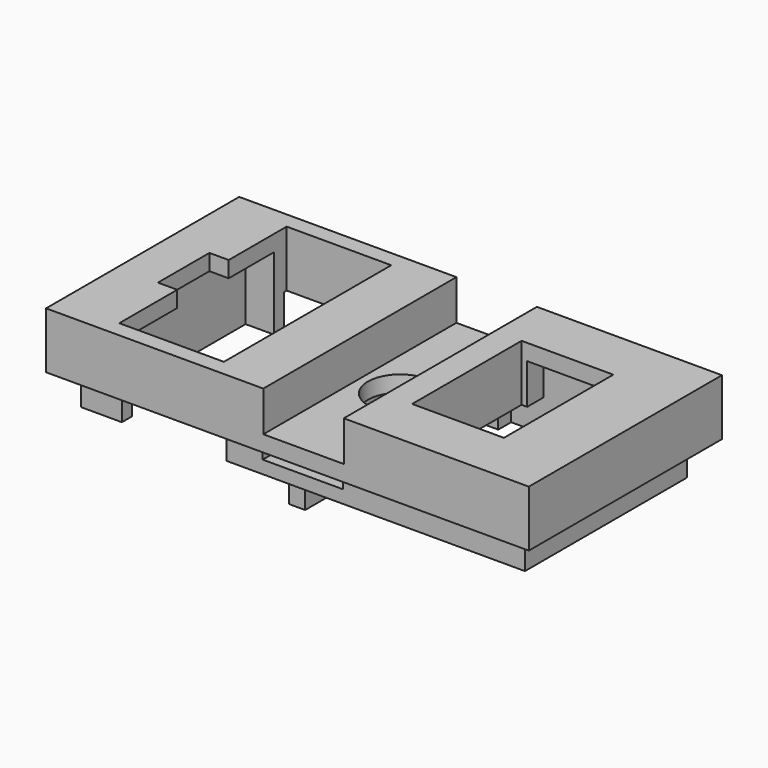
from build123d import *

# Parameters (mm, degrees)
SKETCH_W        = 30
SKETCH_H        = 15
PAD_DEPTH       = 1
SKETCH001_W     = 13.5
SKETCH001_H     = 15
SKETCH001_W_2   = 11.5
PAD001_DEPTH    = 2.5
SKETCH002_W     = 9.5
SKETCH002_H     = 11
SKETCH002_W_2   = 7.5
POCKET_DEPTH    = 2.5
SKETCH003_W     = 27.6
SKETCH003_H     = 12.6
SKETCH003_W_2   = 26
SKETCH003_H_2   = 11
PAD002_DEPTH    = 2
SKETCH004_W     = 5
SKETCH004_H     = 1.2
POCKET001_DEPTH = 13.801
SKETCH005_R     = 2
SKETCH005_W     = 5.7
SKETCH005_H     = 8.5
POCKET002_DEPTH = 5.501
SKETCH006_W     = 1
SKETCH006_H     = 6
PAD003_DEPTH    = 5.3
SKETCH007_W     = 7
SKETCH007_H     = 1
PAD004_DEPTH    = 2


with BuildPart() as part:
    # Sketch → Pad (new body)
    with BuildSketch(Plane.XY):
        Rectangle(SKETCH_W, SKETCH_H)
    extrude(amount=PAD_DEPTH)

    # Sketch001 (on Face6 of Pad) → Pad001 (join)
    with BuildSketch(Plane.XY.offset(1)):
        with Locations((-8.25, 0)):
            Rectangle(SKETCH001_W, SKETCH001_H)
        with Locations((9.25, 0)):
            Rectangle(SKETCH001_W_2, SKETCH001_H)
    extrude(amount=PAD001_DEPTH)

    # Sketch002 (on Face1 of Pad001) → Pocket (cut)
    with BuildSketch(Plane(origin=(0, 0, 0), x_dir=(1, 0, 0), z_dir=(0, 0, -1))):
        with Locations((-8.25, 0)):
            Rectangle(SKETCH002_W, SKETCH002_H)
        with Locations((9.25, 0)):
            Rectangle(SKETCH002_W_2, SKETCH002_H)
    extrude(amount=-POCKET_DEPTH, mode=Mode.SUBTRACT)

    # Sketch003 (on Face1 of Pocket) → Pad002 (join)
    with BuildSketch(Plane(origin=(0, 0, 0), x_dir=(1, 0, 0), z_dir=(0, 0, -1))):
        Rectangle(SKETCH003_W, SKETCH003_H)
        Rectangle(SKETCH003_W_2, SKETCH003_H_2, mode=Mode.SUBTRACT)
    extrude(amount=PAD002_DEPTH)

    # Sketch004 (on Face13 of Pad002) → Pocket001 (cut, through all)
    with BuildSketch(Plane.XZ.offset(6.3)):
        with Locations((0, -0.6)):
            Rectangle(SKETCH004_W, SKETCH004_H)
    extrude(amount=-POCKET001_DEPTH, mode=Mode.SUBTRACT)

    # Sketch005 (on Face16 of Pocket001) → Pocket002 (cut, through all)
    with BuildSketch(Plane.XY.offset(3.5)):
        with Locations((1, 0)):
            Circle(SKETCH005_R)
        with Locations((8, 0)):
            Rectangle(SKETCH005_W, SKETCH005_H)
        Polygon((-11.25, 6.5), (-11.25, 2), (-12.45, 2), (-12.45, -2), (-11.25, -2), (-11.25, -6.5), (-4.75, -6.5), (-4.75, 6.5), align=None)
    extrude(amount=-POCKET002_DEPTH, mode=Mode.SUBTRACT)

    # Sketch006 (on Face60 of Pocket002) → Pad003 (join)
    with BuildSketch(Plane(origin=(0, 0, 0), x_dir=(1, 0, 0), z_dir=(0, 0, -1))):
        with Locations((-3, 0)):
            Rectangle(SKETCH006_W, SKETCH006_H)
    extrude(amount=PAD003_DEPTH)

    # Sketch007 (on Face39 of Pad003) → Pad004 (join)
    with BuildSketch(Plane(origin=(0, 0, 0), x_dir=(1, 0, 0), z_dir=(0, 0, -1))):
        with Locations((0, 5)):
            Rectangle(SKETCH007_W, SKETCH007_H)
        with Locations((0, -5)):
            Rectangle(SKETCH007_W, SKETCH007_H)
    extrude(amount=PAD004_DEPTH)


solid = part.part
